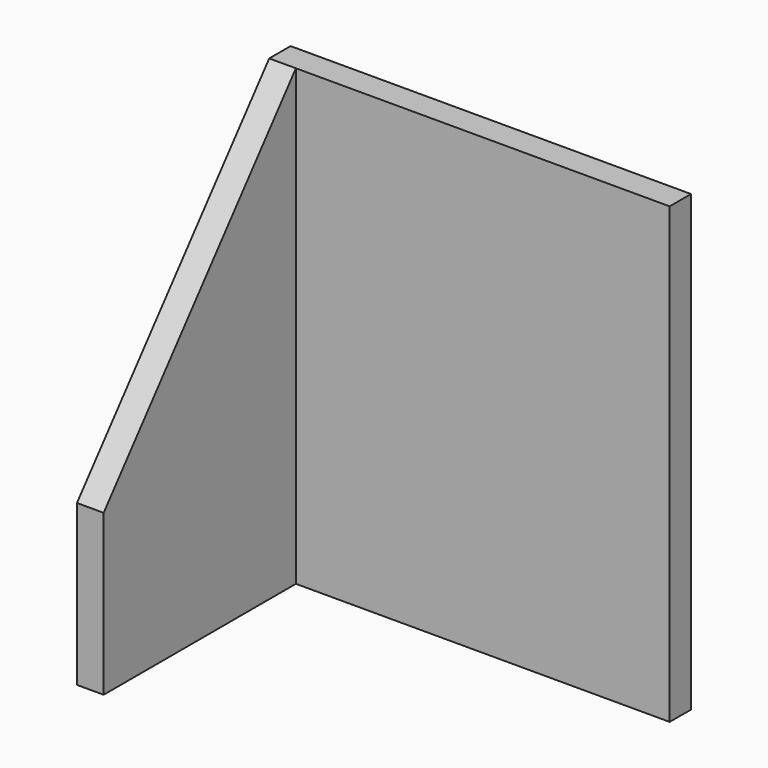
from build123d import *

# Parameters (mm, degrees)
F0_W     = 75
F0_H     = 85
F1_DEPTH = 5
F3_DEPTH = 5


with BuildPart() as f1:
    # F0 (on Front) → F1 (new body)
    with BuildSketch(Plane.XZ):
        with Locations((37.5, 42.5)):
            Rectangle(F0_W, F0_H)
    extrude(amount=F1_DEPTH)


with BuildPart() as f3:
    # F2 (on face) → F3 (new body)
    with BuildSketch(Plane(origin=(0, 0, 0), x_dir=(0, -1, 0), z_dir=(-1, 0, 0))):
        Polygon((5, 85), (5, 0), (50, 0), (50, 30), align=None)
    extrude(amount=-F3_DEPTH)


solid = Compound([f1.part, f3.part])
